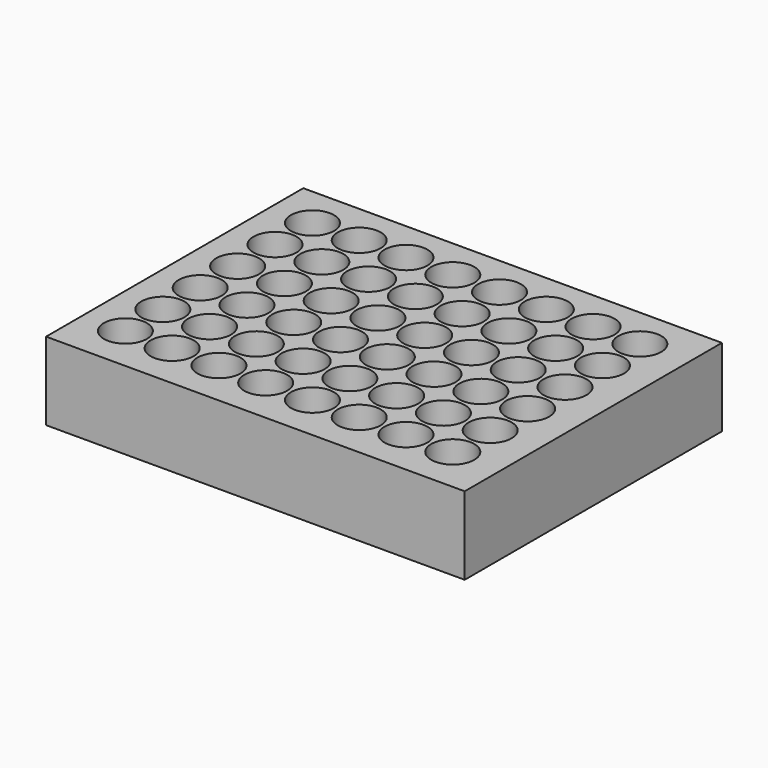
from build123d import *

# Parameters (mm, degrees)
F0_W     = 136.419938
F0_H     = 104.761296
F0_R     = 7.008527
F1_DEPTH = 25.4


with BuildPart() as f1:
    # F0 (on Top) → F1 (new body)
    with BuildSketch(Plane.XY):
        Rectangle(F0_W, F0_H)
        with Locations((-54.395288, -37.346224)):
            Circle(F0_R, mode=Mode.SUBTRACT)
        with Locations((-39.155288, -37.346224)):
            Circle(F0_R, mode=Mode.SUBTRACT)
        with Locations((-23.915288, -37.346224)):
            Circle(F0_R, mode=Mode.SUBTRACT)
        with Locations((-8.675288, -37.346224)):
            Circle(F0_R, mode=Mode.SUBTRACT)
        with Locations((-54.395288, -22.106224)):
            Circle(F0_R, mode=Mode.SUBTRACT)
        with Locations((-39.155288, -22.106224)):
            Circle(F0_R, mode=Mode.SUBTRACT)
        with Locations((-54.395288, -6.866224)):
            Circle(F0_R, mode=Mode.SUBTRACT)
        with Locations((-39.155288, -6.866224)):
            Circle(F0_R, mode=Mode.SUBTRACT)
        with Locations((-23.915288, -22.106224)):
            Circle(F0_R, mode=Mode.SUBTRACT)
        with Locations((-8.675288, -22.106224)):
            Circle(F0_R, mode=Mode.SUBTRACT)
        with Locations((-23.915288, -6.866224)):
            Circle(F0_R, mode=Mode.SUBTRACT)
        with Locations((-8.675288, -6.866224)):
            Circle(F0_R, mode=Mode.SUBTRACT)
        with Locations((6.564712, -37.346224)):
            Circle(F0_R, mode=Mode.SUBTRACT)
        with Locations((21.804712, -37.346224)):
            Circle(F0_R, mode=Mode.SUBTRACT)
        with Locations((37.044712, -37.346224)):
            Circle(F0_R, mode=Mode.SUBTRACT)
        with Locations((52.284712, -37.346224)):
            Circle(F0_R, mode=Mode.SUBTRACT)
        with Locations((6.564712, -22.106224)):
            Circle(F0_R, mode=Mode.SUBTRACT)
        with Locations((21.804712, -22.106224)):
            Circle(F0_R, mode=Mode.SUBTRACT)
        with Locations((6.564712, -6.866224)):
            Circle(F0_R, mode=Mode.SUBTRACT)
        with Locations((21.804712, -6.866224)):
            Circle(F0_R, mode=Mode.SUBTRACT)
        with Locations((37.044712, -22.106224)):
            Circle(F0_R, mode=Mode.SUBTRACT)
        with Locations((52.284712, -22.106224)):
            Circle(F0_R, mode=Mode.SUBTRACT)
        with Locations((37.044712, -6.866224)):
            Circle(F0_R, mode=Mode.SUBTRACT)
        with Locations((52.284712, -6.866224)):
            Circle(F0_R, mode=Mode.SUBTRACT)
        with Locations((-54.395288, 8.373776)):
            Circle(F0_R, mode=Mode.SUBTRACT)
        with Locations((-39.155288, 8.373776)):
            Circle(F0_R, mode=Mode.SUBTRACT)
        with Locations((-54.395288, 23.613776)):
            Circle(F0_R, mode=Mode.SUBTRACT)
        with Locations((-39.155288, 23.613776)):
            Circle(F0_R, mode=Mode.SUBTRACT)
        with Locations((-23.915288, 8.373776)):
            Circle(F0_R, mode=Mode.SUBTRACT)
        with Locations((-8.675288, 8.373776)):
            Circle(F0_R, mode=Mode.SUBTRACT)
        with Locations((-23.915288, 23.613776)):
            Circle(F0_R, mode=Mode.SUBTRACT)
        with Locations((-8.675288, 23.613776)):
            Circle(F0_R, mode=Mode.SUBTRACT)
        with Locations((-54.395288, 38.853776)):
            Circle(F0_R, mode=Mode.SUBTRACT)
        with Locations((-39.155288, 38.853776)):
            Circle(F0_R, mode=Mode.SUBTRACT)
        with Locations((-23.915288, 38.853776)):
            Circle(F0_R, mode=Mode.SUBTRACT)
        with Locations((-8.675288, 38.853776)):
            Circle(F0_R, mode=Mode.SUBTRACT)
        with Locations((6.564712, 8.373776)):
            Circle(F0_R, mode=Mode.SUBTRACT)
        with Locations((21.804712, 8.373776)):
            Circle(F0_R, mode=Mode.SUBTRACT)
        with Locations((6.564712, 23.613776)):
            Circle(F0_R, mode=Mode.SUBTRACT)
        with Locations((21.804712, 23.613776)):
            Circle(F0_R, mode=Mode.SUBTRACT)
        with Locations((37.044712, 8.373776)):
            Circle(F0_R, mode=Mode.SUBTRACT)
        with Locations((52.284712, 8.373776)):
            Circle(F0_R, mode=Mode.SUBTRACT)
        with Locations((37.044712, 23.613776)):
            Circle(F0_R, mode=Mode.SUBTRACT)
        with Locations((52.284712, 23.613776)):
            Circle(F0_R, mode=Mode.SUBTRACT)
        with Locations((6.564712, 38.853776)):
            Circle(F0_R, mode=Mode.SUBTRACT)
        with Locations((21.804712, 38.853776)):
            Circle(F0_R, mode=Mode.SUBTRACT)
        with Locations((37.044712, 38.853776)):
            Circle(F0_R, mode=Mode.SUBTRACT)
        with Locations((52.284712, 38.853776)):
            Circle(F0_R, mode=Mode.SUBTRACT)
    extrude(amount=F1_DEPTH)


solid = f1.part
